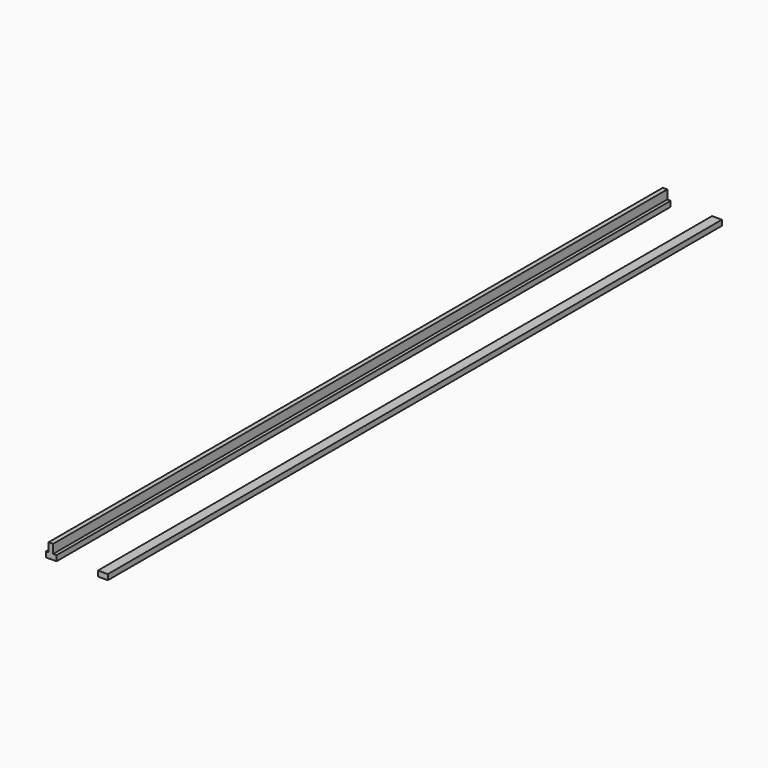
from build123d import *

# Parameters (mm, degrees)
F0_W     = 21.53328
F0_H     = 42.346373
F1_DEPTH = 3657.6


with BuildPart() as f1:
    # F0 (on Front) → F1 (new body)
    with BuildSketch(Plane.XZ):
        with Locations((-127.593413, 21.173186)):
            Rectangle(F0_W, F0_H)
        Polygon((-138.360053, 0), (-150.594875, 0), (-150.594875, -19.259423), (-150.594875, -25.679231), (-100.676812, -25.679231), (-100.676812, -12.839615), (-100.676812, 0), (-116.826773, 0), align=None)
        Polygon((96.548505, -12.839615), (96.548505, -25.679231), (143.53022, -25.679231), (143.53022, -18.338338), (143.53022, 0), (130.316615, 0), (109.76211, 0), (96.548505, 0), align=None)
    extrude(amount=F1_DEPTH)


solid = f1.part
